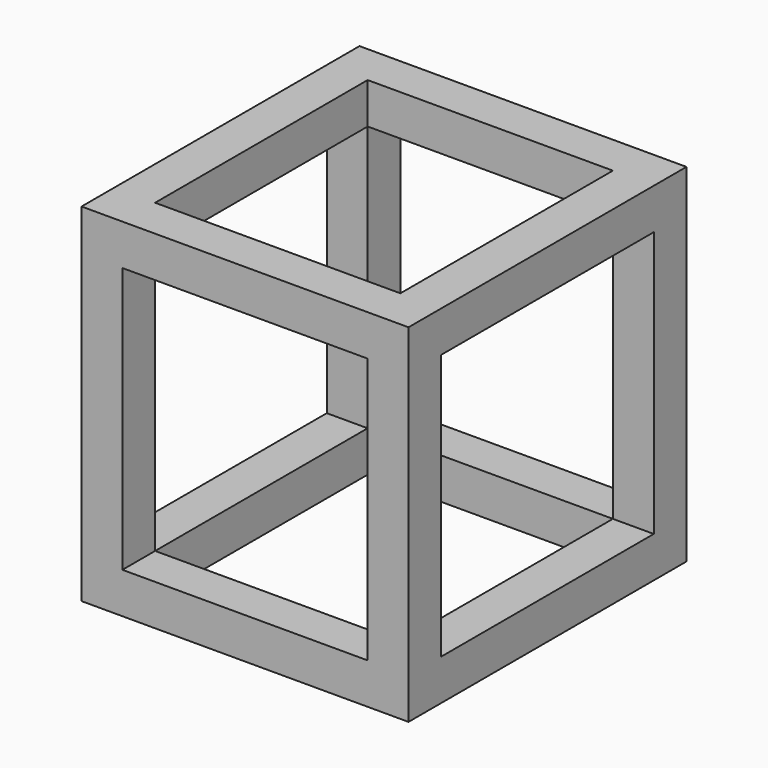
from build123d import *

# Parameters (mm, degrees)
F0_W     = 406.4
F0_H     = 431.8
F1_DEPTH = 431.8
F2_W     = 304.8
F2_H     = 330.2
F3_DEPTH = 1270
F4_W     = 304.8
F4_H     = 330.2
F5_DEPTH = 754.38
F6_W     = 330.2
F6_H     = 330.2
F7_DEPTH = 1270


with BuildPart() as f1:
    # F0 (on Top) → F1 (new body)
    with BuildSketch(Plane.XY):
        with Locations((142.597137, -170.802241)):
            Rectangle(F0_W, F0_H)
    extrude(amount=F1_DEPTH)

    # F2 (on face) → F3 (cut)
    with BuildSketch(Plane.XZ.offset(386.702241)):
        with Locations((142.597137, 215.9)):
            Rectangle(F2_W, F2_H)
    extrude(amount=-F3_DEPTH, mode=Mode.SUBTRACT)

    # F4 (on face) → F5 (cut)
    with BuildSketch(Plane(origin=(0, 0, 0), x_dir=(1, 0, 0), z_dir=(0, 0, -1))):
        with Locations((142.597137, 170.802241)):
            Rectangle(F4_W, F4_H)
    extrude(amount=-F5_DEPTH, mode=Mode.SUBTRACT)

    # F6 (on face) → F7 (cut)
    with BuildSketch(Plane.YZ.offset(345.797137)):
        with Locations((-170.802241, 215.9)):
            Rectangle(F6_W, F6_H)
    extrude(amount=-F7_DEPTH, mode=Mode.SUBTRACT)


solid = f1.part
